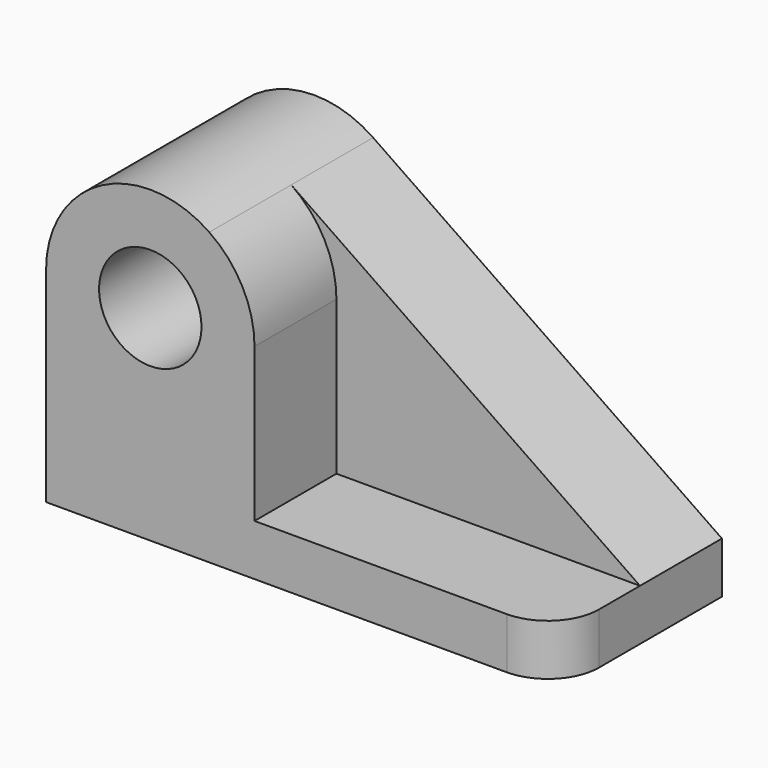
from build123d import *

# Parameters (mm, degrees)
F0_R     = 12.7
F1_DEPTH = 25.4
F2_R     = 12.7
F3_DEPTH = 25.4
F4_R     = 12.7


with BuildPart() as f1:
    # F0 (on Front) → F1 (new body)
    with BuildSketch(Plane.XZ):
        with BuildLine():
            Line((61.220638, -15.7988), (-25.29539, 43.611169))
            ThreePointArc((-25.29539, 43.611169), (-51.969765, 45.176223), (-65.779362, 22.3012))
            Line((-65.779362, 22.3012), (-65.779362, -28.4988))
            Line((-65.779362, -28.4988), (61.220638, -28.4988))
            Line((61.220638, -28.4988), (61.220638, -15.7988))
        make_face()
        with Locations((-39.928801, 22.3012)):
            Circle(F0_R, mode=Mode.SUBTRACT)
    extrude(amount=F1_DEPTH)

    # F2 (on face) → F3 (join)
    with BuildSketch(Plane.XZ.offset(25.4)):
        with BuildLine():
            Line((61.220638, -28.4988), (61.220638, -15.7988))
            Line((61.220638, -15.7988), (-14.078241, -15.7988))
            Line((-14.078241, -15.7988), (-14.078241, 22.3012))
            ThreePointArc((-14.078241, 22.3012), (-17.053778, 34.342163), (-25.29539, 43.611169))
            ThreePointArc((-25.29539, 43.611169), (-51.969765, 45.176223), (-65.779362, 22.3012))
            Line((-65.779362, 22.3012), (-65.779362, -15.7988))
            Line((-65.779362, -15.7988), (-65.779362, -28.4988))
            Line((-65.779362, -28.4988), (61.220638, -28.4988))
        make_face()
        with Locations((-39.928801, 22.3012)):
            Circle(F2_R, mode=Mode.SUBTRACT)
    extrude(amount=F3_DEPTH)

    # F4
    f4_edges = [f1.edges().sort_by_distance(p)[0] for p in [
        (61.220638, -50.8, -22.1488),
    ]]
    fillet(f4_edges, radius=F4_R)


solid = f1.part
